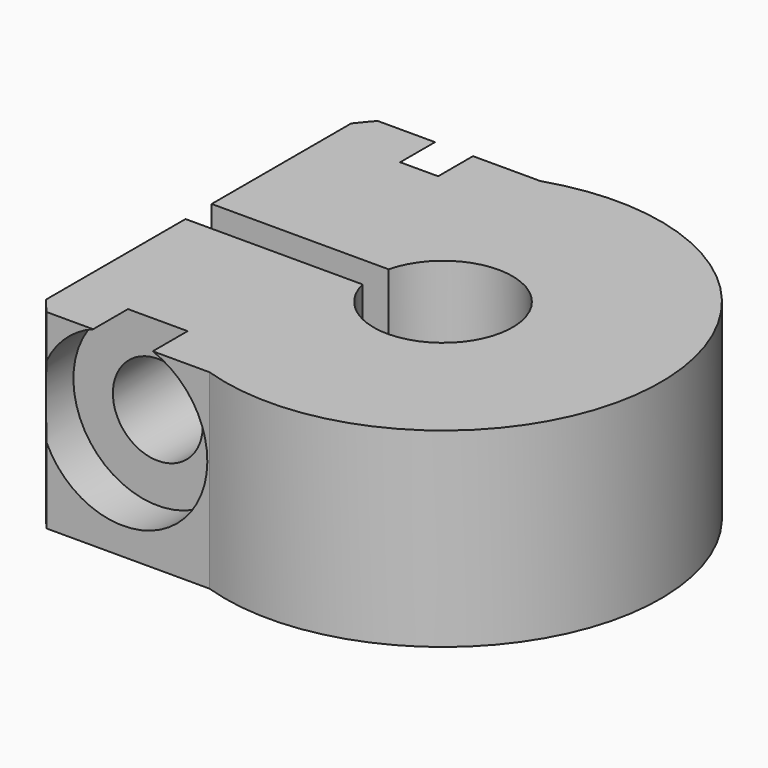
from build123d import *

# Parameters (mm, degrees)
SKETCH002_AS_DRAWN_R                 = 1.65
EXTRUDE003_DEPTH                     = 6
EXTRUDE003_ONTO_SKETCH002_ROLL_ANGLE = 90
SKETCH003_R                          = 3.1
PAD_DEPTH                            = 5
PAD001_DEPTH                         = 5
EXTRUDE_DEPTH                        = 1
EXTRUDE002_DEPTH                     = 7


with BuildPart() as body:
    # Sketch002 as drawn → Extrude003 (new, symmetric)
    with BuildSketch(Plane.XY):
        with Locations((-5.676932, 4.1)):
            Circle(SKETCH002_AS_DRAWN_R)
    extrude(amount=EXTRUDE003_DEPTH, both=True)


with BuildPart() as body_1:
    # Extrude003 onto Sketch002 roll: moved
    add(body.part.rotate(Axis((0, 0, 0), (1, 0, 0)), EXTRUDE003_ONTO_SKETCH002_ROLL_ANGLE))


with BuildPart() as body_2:
    # Extrude003 onto Sketch002 placement: moved
    add(body_1.part)

    # Sketch003 (on Face3 of BaseFeature) → Pad (new body)
    with BuildSketch(Plane.XZ.offset(6)):
        with Locations((-5.676932, 4.1)):
            Circle(SKETCH003_R)
    extrude(amount=PAD_DEPTH)

    # Sketch004 (on Face1 of Pad) → Pad001 (join)
    with BuildSketch(Plane(origin=(0, 6, 0), x_dir=(-1, 0, 0), z_dir=(0, 1, 0))):
        Polygon((5.676932, 0.797556), (8.536932, 2.448778), (8.536932, 5.751222), (5.676932, 7.402444), (2.816932, 5.751222), (2.816932, 2.448778), align=None)
    extrude(amount=PAD001_DEPTH)


with BuildPart() as extrude001:
    # Sketch001 → Extrude (new body)
    with BuildSketch(Plane.XY):
        Polygon((0, 0), (-15, 0), (-15, 15.001059), (5.758367, 15.001059), align=None)
    extrude(amount=EXTRUDE_DEPTH)


with BuildPart() as cut001:
    # Sketch → Extrude002 (new body)
    with BuildSketch(Plane.XY):
        with BuildLine():
            ThreePointArc((-2.478407, -0.6), (2.55, 0), (-2.478407, 0.6))
            Line((-8.978407, 0.6), (-2.478407, 0.6))
            Line((-8.978407, 0.6), (-8.978407, 7.002256))
            ThreePointArc((-8.478407, 7.6), (-8.733522, 7.305407), (-8.978407, 7.002256))
            Line((-8.478407, 7.6), (-2.497999, 7.6))
            ThreePointArc((-2.497999, -7.6), (8, 0), (-2.497999, 7.6))
            Line((-8.478407, -7.6), (-2.497999, -7.6))
            ThreePointArc((-8.978407, -7.002256), (-8.733522, -7.305407), (-8.478407, -7.6))
            Line((-8.978407, -0.6), (-8.978407, -7.002256))
            Line((-8.978407, -0.6), (-2.478407, -0.6))
        make_face()
    extrude(amount=EXTRUDE002_DEPTH)

    # Cut: cut Extrude001
    add(extrude001.part, mode=Mode.SUBTRACT)

    # Cut001: cut Body
    add(body_2.part, mode=Mode.SUBTRACT)


solid = cut001.part
